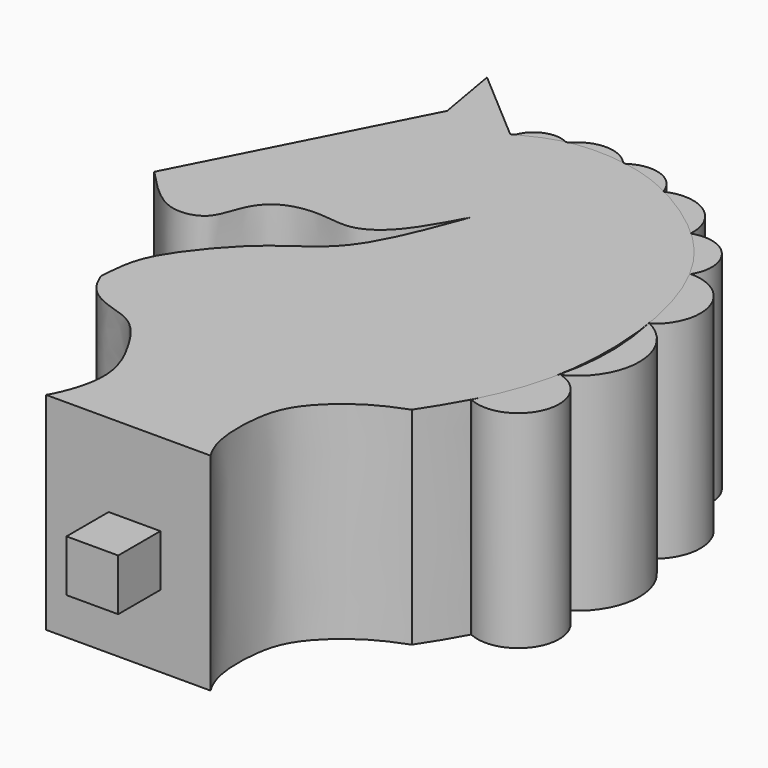
from build123d import *

# Parameters (mm, degrees)
F2_DEPTH = 10
F3_DEPTH = 10
F5_W     = 2.5
F5_H     = 2.5
F6_DEPTH = 2.55


with BuildPart() as f2:
    # F1 (on Top) → F2 (new body)
    with BuildSketch(Plane.XY):
        with BuildLine():
            ThreePointArc((9.8868366331, 18.8806653023), (10.7391583273, 21.4351938959), (8.5562430322, 23.0122003704))
            Line((8.5562430322, 23.0122003704), (8.4334415838, 23.0112200522))
            add(Edge.make_bspline(
                [(8.4334415838, 23.0112200522), (9.039813847, 21.8301859064), (9.5207915119, 20.3689476314), (9.8307114094, 18.8806653023)],
                knots=[0.5688861462, 0.5688861462, 0.5688861462, 0.5688861462, 0.7094700668, 0.7094700668, 0.7094700668, 0.7094700668], degree=3))
            Line((9.8307114094, 18.8806653023), (9.8868366331, 18.8806653023))
        make_face()
        with BuildLine():
            ThreePointArc((9.8868366331, 13.5100632906), (11.527763497, 16.1953642964), (9.8868366331, 18.8806653023))
            Line((9.8868366331, 18.8806653023), (9.8307114094, 18.8806653023))
            add(Edge.make_bspline(
                [(9.8307114094, 18.8806653023), (10.1739742387, 17.2322651606), (10.3073926431, 15.5506888351), (9.8119792172, 13.5314884899)],
                knots=[0.7094700668, 0.7094700668, 0.7094700668, 0.7094700668, 0.865178799, 0.865178799, 0.865178799, 0.865178799], degree=3))
            Line((9.8119792172, 13.5314884899), (9.8868366331, 13.5100632906))
        make_face()
        with BuildLine():
            ThreePointArc((8.5562430322, 9.800106287), (11.202384319, 10.9446455586), (9.8868366331, 13.5100632906))
            Line((9.8868366331, 13.5100632906), (9.8119792172, 13.5314884899))
            add(Edge.make_bspline(
                [(9.8119792172, 13.5314884899), (9.3859754601, 11.7951872747), (8.4888256969, 9.7954761091), (8.5001109134, 9.8000746355), (8.5001885891, 9.800106287)],
                knots=[0.865178799, 0.865178799, 0.865178799, 0.865178799, 0.9990720313, 1, 1, 1, 1], degree=3))
            Line((8.5001885891, 9.800106287), (8.5562430322, 9.800106287))
        make_face()
        with BuildLine():
            ThreePointArc((8.5562430322, 23.0122003704), (8.4374020883, 25.0457214806), (6.4764507115, 25.5970843136))
            add(Edge.make_bspline(
                [(6.4764507115, 25.5970843136), (7.2943342217, 24.8398392998), (7.9105162063, 24.0297243015), (8.4334415838, 23.0112200522)],
                knots=[0.447648906, 0.447648906, 0.447648906, 0.447648906, 0.5688861462, 0.5688861462, 0.5688861462, 0.5688861462], degree=3))
            Line((8.4334415838, 23.0112200522), (8.5562430322, 23.0122003704))
        make_face()
    extrude(amount=F2_DEPTH)


with BuildPart() as f2b:
    # F1 (on Top) → F2, piece 2 (new body)
    with BuildSketch(Plane.XY):
        with BuildLine():
            ThreePointArc((6.4764507115, 25.5970843136), (5.5866855056, 27.4554808028), (3.5334266722, 27.6270844042))
            add(Edge.make_bspline(
                [(3.5334266722, 27.6270844042), (4.536544335, 27.1289926967), (5.6176829257, 26.3921824122), (6.4764507115, 25.5970843136)],
                knots=[0.3203512712, 0.3203512712, 0.3203512712, 0.3203512712, 0.447648906, 0.447648906, 0.447648906, 0.447648906], degree=3))
        make_face()
    extrude(amount=F2_DEPTH)


with BuildPart() as f2c:
    # F1 (on Top) → F2, piece 3 (new body)
    with BuildSketch(Plane.XY):
        with BuildLine():
            ThreePointArc((3.5334266722, 27.6270844042), (2.4583213434, 28.7408966239), (0.9364597499, 28.4574069083))
            add(Edge.make_bspline(
                [(0.9364597499, 28.4574069083), (1.840939808, 28.3149747578), (2.6574338214, 28.0620530934), (3.5334266722, 27.6270844042)],
                knots=[0.2091860289, 0.2091860289, 0.2091860289, 0.2091860289, 0.3203512712, 0.3203512712, 0.3203512712, 0.3203512712], degree=3))
        make_face()
    extrude(amount=F2_DEPTH)


with BuildPart() as f2d:
    # F1 (on Top) → F2, piece 4 (new body)
    with BuildSketch(Plane.XY):
        with BuildLine():
            ThreePointArc((0.9364597499, 28.4574069083), (-0.4326906055, 29.1264908894), (-1.801840961, 28.4574069083))
            add(Edge.make_bspline(
                [(-1.801840961, 28.4574069083), (-0.9647864012, 28.6319195592), (0.0300204904, 28.6001475821), (0.9364597499, 28.4574069083)],
                knots=[0.0977799908, 0.0977799908, 0.0977799908, 0.0977799908, 0.2091860289, 0.2091860289, 0.2091860289, 0.2091860289], degree=3))
        make_face()
    extrude(amount=F2_DEPTH)


with BuildPart() as f2e:
    # F1 (on Top) → F2, piece 5 (new body)
    with BuildSketch(Plane.XY):
        with BuildLine():
            add(Edge.make_bspline(
                [(-3.7628188729, 27.6800841093), (-3.1496672197, 27.9921614848), (-2.5365155664, 28.3042388603), (-1.801840961, 28.4574069083)],
                knots=[0, 0, 0, 0, 0.0977799908, 0.0977799908, 0.0977799908, 0.0977799908], degree=3))
            ThreePointArc((-1.801840961, 28.4574069083), (-2.9762072449, 28.5578462507), (-3.7628188729, 27.6800841093))
        make_face()
    extrude(amount=F2_DEPTH)


with BuildPart() as f3:
    # F0 (on Top) → F3 (new body)
    with BuildSketch(Plane.XY):
        with BuildLine():
            Line((-6.956886887, 27.6873964372), (-12.4794470743, 16.8932903899))
            add(Edge.make_bspline(
                [(-12.4794470743, 16.8932903899), (-12.1115177575, 16.5008815726), (-11.3856280956, 15.7266961767), (-10.0969803778, 14.797217917), (-8.4463129775, 15.1270256477), (-8.1402571228, 16.6919926648), (-7.2754926111, 17.8806322708), (-5.4921641458, 18.2159814054), (-3.8671115183, 17.7838675938), (-2.2150015818, 18.8471769684), (-1.3242353255, 20.5076393734), (-0.8184604298, 21.4504458548)],
                knots=[0, 0, 0, 0, 0.108789793, 0.2146319481, 0.314822017, 0.4178421681, 0.5188301736, 0.6304095743, 0.7388070946, 0.8516953089, 1, 1, 1, 1], degree=3))
            add(Edge.make_bspline(
                [(-0.8184604298, 21.4504458548), (-1.2927268673, 20.1893128102), (-2.1307454779, 17.9609178023), (-3.5077259982, 16.0449730888), (-5.7152057676, 14.8193722854), (-7.9863974289, 12.0731321581), (-8.6182414833, 10.5440754701), (-8.6904035616, 9.4907118054), (-8.7257695492, 8.9744677169)],
                knots=[0, 0, 0, 0, 0.2066303506, 0.3651113923, 0.5339863226, 0.7329907798, 0.869141175, 1, 1, 1, 1], degree=3))
            add(Edge.make_bspline(
                [(-8.7257695492, 8.9744677169), (-8.591756213, 8.6629400923), (-8.3084345704, 8.00433013), (-7.1940625433, 7.2524126773), (-5.5358453232, 6.9909292602), (-4.33872477, 5.2079150674), (-3.6978072501, 3.9118294872), (-3.3763865891, 2.3527355335), (-3.8760068449, 0.7834319662), (-4.2757854916, 0.1036788831)],
                knots=[0, 0, 0, 0, 0.0798158481, 0.1687410957, 0.2693440467, 0.3820571472, 0.4773704198, 0.5748375963, 0.6970054399, 0.6970054399, 0.6970054399, 0.6970054399], degree=3))
            Line((-4.2757854916, 0.1036788831), (-1.8036556303, 0.1036788831))
            Line((-1.8036556303, 0.1036788831), (1.1612173494, 0.1036788831))
            Line((1.1612173494, 0.1036788831), (3.6761645139, 0.1036788831))
            add(Edge.make_bspline(
                [(7.2574619425, 7.7816450109), (6.7262872216, 7.574060732), (5.5507119295, 7.1146432565), (3.3993998544, 5.2674837278), (3.0089654531, 3.1526263567), (3.0682331316, 1.2510111623), (3.5415944593, 0.3191754785), (3.6761645139, 0.1036788831)],
                knots=[0, 0, 0, 0, 0.1347233142, 0.298164414, 0.4427128901, 0.5957610218, 0.6453793664, 0.6453793664, 0.6453793664, 0.6453793664], degree=3))
            add(Edge.make_bspline(
                [(-3.9109068398, 27.6873964372), (-3.2681793071, 28.0126523232), (-1.9088345918, 28.7005563686), (0.94648276, 28.6689628353), (3.5565481014, 27.821792279), (6.5942428944, 25.7591665199), (8.7142686993, 23.1055108927), (10.115857033, 18.85870485), (10.1268795283, 13.5465858472), (8.6523498629, 9.9242471528), (7.6872255011, 8.4417785656), (7.2574619425, 7.7816450109)],
                knots=[0, 0, 0, 0, 0.0901265526, 0.1906142911, 0.2916198244, 0.406516675, 0.5175523832, 0.6450505582, 0.785299628, 0.9043953302, 1, 1, 1, 1], degree=3))
            Line((-3.9109068398, 27.6873964372), (-7.4931675838, 30.7661991324))
            Line((-7.4931675838, 30.7661991324), (-6.956886887, 27.6873964372))
        make_face()
    extrude(amount=F3_DEPTH)

    # F5 (on face) → F6 (join)
    with BuildSketch(Plane.XZ.offset(-0.1036788831)):
        with Locations((2.79e-08, 4.7491337452)):
            Rectangle(F5_W, F5_H)
    extrude(amount=F6_DEPTH)


solid = Compound([f2.part, f2b.part, f2c.part, f2d.part, f2e.part, f3.part])
